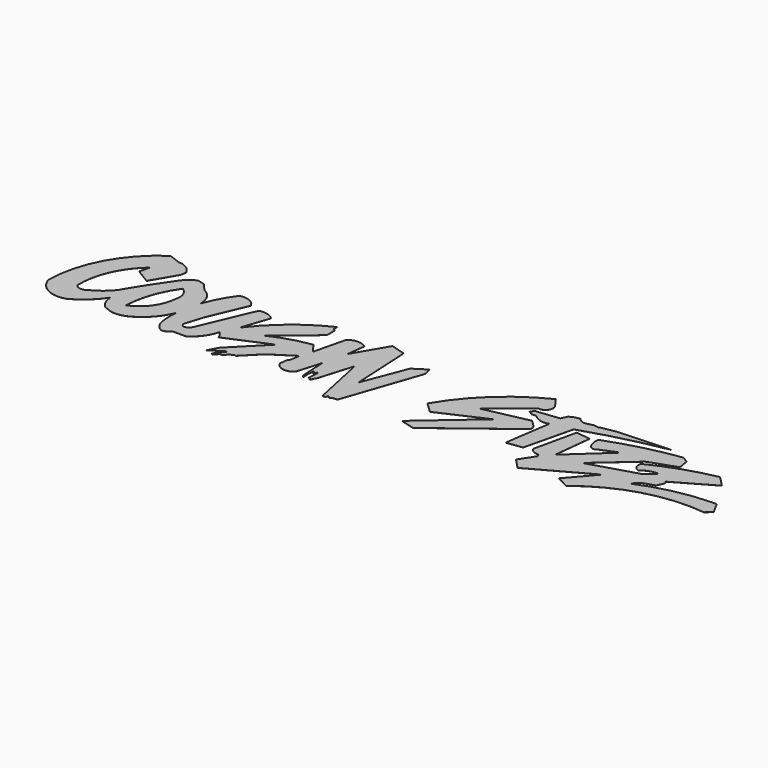
from build123d import *

# Parameters (mm, degrees)
F1_DEPTH = 0.0254


with BuildPart() as f1:
    # F0 (on Top) → F1 (new body)
    with BuildSketch(Plane.XY):
        with BuildLine():
            Line((-40.814668, -20.061377), (-35.456169, -23.33888))
            Line((-35.456169, -23.33888), (-30.172428, -14.330441))
            Line((-30.172428, -14.330441), (-29.84323, -12.228638))
            Line((-29.84323, -12.228638), (-31.767771, -9.82296))
            Line((-31.767771, -9.82296), (-34.058381, -8.665118))
            Line((-34.058381, -8.665118), (-35.456534, -8.665118))
            Line((-35.456534, -8.665118), (-39.766308, -6.990555))
            ThreePointArc((-39.766308, -6.990555), (-52.882926, -21.429325), (-57.73396, -40.323537))
            ThreePointArc((-57.73396, -40.323537), (-53.229082, -45.732962), (-46.202961, -46.168193))
            ThreePointArc((-46.202961, -46.168193), (-41.12093, -42.568908), (-37.051484, -37.85494))
            ThreePointArc((-37.051484, -37.85494), (-36.374933, -40.902142), (-34.484684, -43.386117))
            Line((-34.484684, -43.386117), (-31.629376, -44.468116))
            ThreePointArc((-31.629376, -44.468116), (-29.085275, -44.599134), (-26.600435, -44.037722))
            ThreePointArc((-26.600435, -44.037722), (-20.561823, -39.762668), (-16.553512, -33.543795))
            ThreePointArc((-16.553512, -33.543795), (-16.674398, -36.008108), (-16.553512, -38.472421))
            ThreePointArc((-16.553512, -38.472421), (-16.376102, -39.686118), (-16.166288, -40.894635))
            ThreePointArc((-16.166288, -40.894635), (-15.257444, -42.776678), (-13.744076, -44.218134))
            ThreePointArc((-13.744076, -44.218134), (-12.758292, -44.513674), (-11.772509, -44.218134))
            ThreePointArc((-11.772509, -44.218134), (-10.822215, -43.683691), (-9.929465, -43.057844))
            Line((-9.929465, -43.057844), (-5.35535, -43.057844))
            ThreePointArc((-5.35535, -43.057844), (-1.643072, -39.673645), (0.504758, -35.13265))
            ThreePointArc((0.504758, -35.13265), (1.61293, -36.290022), (2.26787, -37.75242))
            Line((2.26787, -37.75242), (17.923376, -31.070882))
            Line((17.923376, -31.070882), (6.588019, -42.505376))
            Line((6.588019, -42.505376), (4.588858, -46.116766))
            Line((4.588858, -46.116766), (10.133065, -42.661674))
            Line((10.133065, -42.661674), (6.997161, -46.794422))
            Line((6.997161, -46.794422), (7.5647, -47.108595))
            Line((7.5647, -47.108595), (9.079446, -45.580602))
            Line((9.079446, -45.580602), (10.124489, -45.580602))
            Line((10.124489, -45.580602), (11.387067, -43.916674))
            Line((11.387067, -43.916674), (12.106283, -43.916674))
            Line((12.106283, -43.916674), (12.702405, -43.315338))
            Line((12.702405, -43.315338), (13.263228, -43.625794))
            Line((13.263228, -43.625794), (19.22754, -37.609319))
            Line((19.22754, -37.609319), (27.541386, -32.228503))
            Line((27.541386, -32.228503), (26.89415, -36.008108))
            Line((26.89415, -36.008108), (26.400872, -36.505701))
            Line((26.400872, -36.505701), (26.018973, -39.306127))
            ThreePointArc((26.018973, -39.306127), (29.050161, -41.701994), (32.71639, -40.482547))
            Line((32.71639, -40.482547), (35.34798, -31.71302))
            Line((35.34798, -31.71302), (35.839971, -41.165788))
            Line((35.839971, -41.165788), (36.309332, -41.720353))
            Line((36.309332, -41.720353), (36.578707, -41.720353))
            Line((36.578707, -41.720353), (36.393512, -38.9424))
            Line((36.393512, -38.9424), (36.556727, -38.931519))
            Line((36.556727, -38.931519), (36.556727, -37.233748))
            Line((36.556727, -37.233748), (37.178509, -37.420334))
            Line((37.178509, -37.420334), (37.231541, -38.215823))
            Line((37.231541, -38.215823), (37.513395, -38.300403))
            Line((37.513395, -38.300403), (37.84611, -37.19166))
            Line((37.84611, -37.19166), (38.177172, -37.291007))
            Line((38.177172, -37.291007), (37.921067, -41.18377))
            Line((37.921067, -41.18377), (38.555734, -41.225524))
            Line((38.555734, -41.225524), (38.57808, -41.654858))
            Line((38.57808, -41.654858), (39.188384, -41.838))
            Line((39.188384, -41.838), (39.62168, -40.394081))
            Line((39.62168, -40.394081), (40.001903, -40.038235))
            Line((40.001903, -40.038235), (43.77974, -27.448947))
            Line((43.77974, -27.448947), (47.870591, -46.658602))
            Line((47.870591, -46.658602), (48.052725, -47.513855))
            Line((48.052725, -47.513855), (49.142636, -47.457128))
            Line((49.142636, -47.457128), (49.445057, -46.449339))
            Line((49.445057, -46.449339), (50.425995, -47.314901))
            Line((50.425995, -47.314901), (51.289991, -46.673927))
            Line((51.289991, -46.673927), (52.833369, -46.593599))
            Line((52.833369, -46.593599), (62.4169, -18.59506))
            Line((62.4169, -18.59506), (61.788303, -15.643323))
            Line((61.788303, -15.643323), (57.028484, -18.697109))
            Line((57.028484, -18.697109), (50.894614, -34.630511))
            Line((50.894614, -34.630511), (49.745111, -12.544786))
            Line((49.745111, -12.544786), (44.436362, -10.951718))
            Line((44.436362, -10.951718), (37.513395, -22.744058))
            Line((37.513395, -22.744058), (38.310595, -16.14169))
            ThreePointArc((38.310595, -16.14169), (35.024052, -15.014582), (31.73751, -16.14169))
            Line((31.73751, -16.14169), (28.916704, -27.865255))
            Line((28.916704, -27.865255), (26.311034, -24.411261))
            ThreePointArc((26.311034, -24.411261), (18.734819, -26.069512), (11.531713, -28.944248))
            Line((11.531713, -28.944248), (23.378098, -19.293897))
            Line((23.378098, -19.293897), (25.6055, -17.195001))
            Line((25.6055, -17.195001), (25.6055, -13.811065))
            Line((25.6055, -13.811065), (24.788596, -13.371222))
            Line((24.788596, -13.371222), (24.788596, -11.63715))
            ThreePointArc((24.788596, -11.63715), (12.99728, -19.151488), (3.31652, -29.240258))
            Line((3.31652, -29.240258), (6.692553, -19.234037))
            ThreePointArc((6.692553, -19.234037), (4.058674, -17.730811), (1.026465, -17.78291))
            Line((1.026465, -17.78291), (-7.159159, -37.028838))
            ThreePointArc((-7.159159, -37.028838), (-8.062897, -38.220783), (-9.423243, -38.842823))
            ThreePointArc((-9.423243, -38.842823), (-10.392538, -38.188935), (-10.538408, -37.028838))
            Line((-10.538408, -37.028838), (-8.505542, -30.481186))
            Line((-8.505542, -30.481186), (-2.665938, -16.751187))
            ThreePointArc((-2.665938, -16.751187), (-5.369385, -14.220698), (-9.070498, -14.103409))
            ThreePointArc((-9.070498, -14.103409), (-12.310113, -19.164569), (-14.723056, -24.668036))
            ThreePointArc((-14.723056, -24.668036), (-15.837016, -20.372024), (-19.125544, -17.391721))
            Line((-19.125544, -17.391721), (-21.475008, -14.687038))
            Line((-21.475008, -14.687038), (-24.110544, -13.934028))
            ThreePointArc((-24.110544, -13.934028), (-26.59337, -15.527716), (-28.58212, -17.706968))
            ThreePointArc((-28.58212, -17.706968), (-33.650182, -25.217524), (-38.396157, -32.935645))
            ThreePointArc((-38.396157, -32.935645), (-41.314541, -35.863309), (-44.801224, -38.083944))
            ThreePointArc((-44.801224, -38.083944), (-47.066883, -38.907747), (-49.211553, -37.806725))
            ThreePointArc((-49.211553, -37.806725), (-46.963177, -25.951167), (-39.777193, -16.257297))
            Line((-39.777193, -16.257297), (-40.814668, -20.061377))
        make_face()
        with BuildLine():
            ThreePointArc((-24.40406, -20.656699), (-22.116185, -23.44245), (-22.067327, -27.046945))
            ThreePointArc((-22.067327, -27.046945), (-24.708265, -34.139634), (-30.65124, -38.825981))
            ThreePointArc((-30.65124, -38.825981), (-28.857293, -29.284167), (-24.40406, -20.656699))
        make_face(mode=Mode.SUBTRACT)
        with BuildLine():
            Line((75.37996, -45.372084), (80.587909, -46.782721))
            Line((80.587909, -46.782721), (107.155904, -26.421757))
            ThreePointArc((107.155904, -26.421757), (107.104034, -25.217392), (106.469885, -24.19219))
            Line((106.469885, -24.19219), (104.297259, -22.121479))
            Line((104.297259, -22.121479), (87.647192, -25.649983))
            Line((87.647192, -25.649983), (101.15207, -15.09218))
            ThreePointArc((101.15207, -15.09218), (103.716057, -13.925269), (103.892073, -11.113734))
            Line((103.892073, -11.113734), (101.263449, -7.476872))
            ThreePointArc((101.263449, -7.476872), (85.961786, -17.948446), (74.326739, -32.385219))
            Line((74.326739, -32.385219), (78.120179, -35.99932))
            Line((78.120179, -35.99932), (95.148318, -28.287306))
            Line((95.148318, -28.287306), (75.37996, -45.372084))
        make_face()
        with BuildLine():
            Line((101.642087, -19.019509), (103.414252, -19.019509))
            ThreePointArc((103.414252, -19.019509), (106.155444, -20.654211), (109.344192, -20.519035))
            Line((109.344192, -20.519035), (106.849723, -37.364017))
            Line((106.849723, -37.364017), (112.610027, -36.619332))
            Line((112.610027, -36.619332), (116.906345, -18.843576))
            ThreePointArc((116.906345, -18.843576), (131.745027, -14.515965), (146.861985, -11.292259))
            Line((146.861985, -11.292259), (127.471611, -12.290948))
            Line((127.471611, -12.290948), (122.360408, -13.197375))
            ThreePointArc((122.360408, -13.197375), (121.240638, -13.497667), (120.120868, -13.197375))
            Line((120.120868, -13.197375), (117.978305, -13.703012))
            ThreePointArc((117.978305, -13.703012), (115.992209, -13.761621), (114.412934, -12.555844))
            ThreePointArc((114.412934, -12.555844), (112.51895, -12.890693), (110.775553, -13.703012))
            Line((110.775553, -13.703012), (109.684989, -15.9523))
            Line((109.684989, -15.9523), (101.042678, -16.928596))
            Line((101.042678, -16.928596), (100.278884, -18.201588))
            Line((100.278884, -18.201588), (101.642087, -19.019509))
        make_face()
        with BuildLine():
            Line((124.089859, -20.519035), (118.821189, -19.937489))
            Line((118.821189, -19.937489), (115.384333, -35.453219))
            ThreePointArc((115.384333, -35.453219), (116.783344, -36.878414), (118.740658, -37.275067))
            Line((118.740658, -37.275067), (119.25374, -38.207222))
            Line((119.25374, -38.207222), (115.660414, -43.669071))
            Line((115.660414, -43.669071), (119.25374, -47.408063))
            Line((119.25374, -47.408063), (140.669942, -35.62003))
            Line((140.669942, -35.62003), (132.477164, -45.106404))
            Line((132.477164, -45.106404), (137.060791, -47.408063))
            ThreePointArc((137.060791, -47.408063), (156.279162, -37.40929), (177.869782, -35.629846))
            Line((177.869782, -35.629846), (179.978654, -33.798456))
            Line((179.978654, -33.798456), (177.533268, -29.353564))
            Line((177.533268, -29.353564), (175.538927, -29.414216))
            ThreePointArc((175.538927, -29.414216), (162.594968, -31.026971), (150.176927, -35.019383))
            Line((150.176927, -35.019383), (152.603313, -32.582805))
            Line((152.603313, -32.582805), (156.917691, -31.214109))
            Line((156.917691, -31.214109), (158.043509, -28.637005))
            Line((158.043509, -28.637005), (157.503888, -27.696013))
            Line((157.503888, -27.696013), (171.618223, -19.60201))
            Line((171.618223, -19.60201), (167.871967, -15.761759))
            ThreePointArc((167.871967, -15.761759), (156.325686, -18.876536), (145.283967, -23.469886))
            ThreePointArc((145.283967, -23.469886), (145.375243, -25.74365), (147.179544, -27.130311))
            ThreePointArc((147.179544, -27.130311), (149.859522, -25.560563), (152.931646, -25.104005))
            Line((152.931646, -25.104005), (149.467319, -28.176147))
            Line((149.467319, -28.176147), (131.745027, -33.536058))
            Line((131.745027, -33.536058), (145.305276, -21.644976))
            Line((145.305276, -21.644976), (155.195504, -18.195866))
            Line((155.195504, -18.195866), (154.489055, -14.289644))
            Line((154.489055, -14.289644), (152.286619, -12.91831))
            ThreePointArc((152.286619, -12.91831), (139.174266, -15.484275), (126.439065, -19.525642))
            ThreePointArc((126.439065, -19.525642), (126.458434, -21.961351), (127.436399, -24.19219))
            ThreePointArc((127.436399, -24.19219), (128.84929, -24.814502), (130.262181, -24.19219))
            Line((130.262181, -24.19219), (136.416554, -21.666914))
            Line((136.416554, -21.666914), (122.562815, -34.353709))
            Line((122.562815, -34.353709), (124.089859, -20.519035))
        make_face()
    extrude(amount=F1_DEPTH)


solid = f1.part
